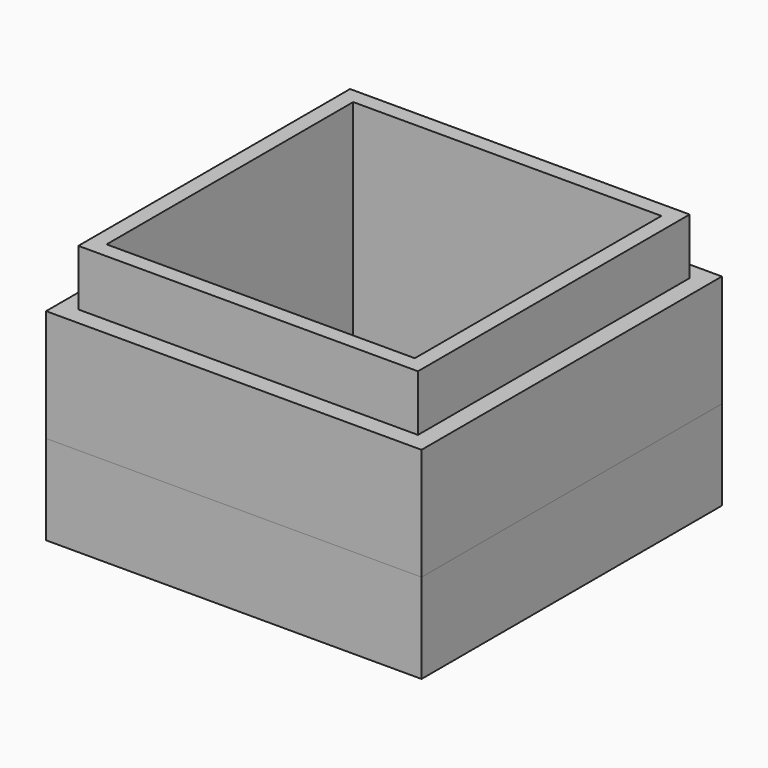
from build123d import *

# Parameters (mm, degrees)
SKETCH_W        = 33.5
SKETCH_H        = 33.5
PAD_DEPTH       = 23
BOX_W           = 27.5
BOX_H           = 27.5
BOX_DEPTH       = 20
SKETCH001_W     = 33.5
SKETCH001_H     = 33.5
SKETCH001_W_2   = 30.3
SKETCH001_H_2   = 30.3
POCKET_DEPTH    = 5
SKETCH002_W     = 33.5
SKETCH002_H     = 33.5
PAD001_DEPTH    = 8
SKETCH003_W     = 30.7
SKETCH003_H     = 30.7
POCKET001_DEPTH = 5


with BuildPart() as bottom:
    # Sketch → Pad (new body)
    with BuildSketch(Plane.XY):
        Rectangle(SKETCH_W, SKETCH_H)
    extrude(amount=PAD_DEPTH)

    # Box → Box (cut)
    with BuildSketch(Plane(origin=(-13.75, -13.75, 3), x_dir=(1, 0, 0), z_dir=(0, 0, 1))):
        with Locations((13.75, 13.75)):
            Rectangle(BOX_W, BOX_H)
    extrude(amount=BOX_DEPTH, mode=Mode.SUBTRACT)

    # Sketch001 → Pocket (cut)
    with BuildSketch(Plane.XY.offset(23)):
        Rectangle(SKETCH001_W, SKETCH001_H)
        Rectangle(SKETCH001_W_2, SKETCH001_H_2, mode=Mode.SUBTRACT)
    extrude(amount=-POCKET_DEPTH, mode=Mode.SUBTRACT)


with BuildPart() as cap:
    # Sketch002 → Pad001 (new body)
    with BuildSketch(Plane.XY):
        Rectangle(SKETCH002_W, SKETCH002_H)
    extrude(amount=PAD001_DEPTH)

    # Sketch003 → Pocket001 (cut)
    with BuildSketch(Plane.XY.offset(8)):
        Rectangle(SKETCH003_W, SKETCH003_H)
    extrude(amount=-POCKET001_DEPTH, mode=Mode.SUBTRACT)


solid = Compound([bottom.part, cap.part])
